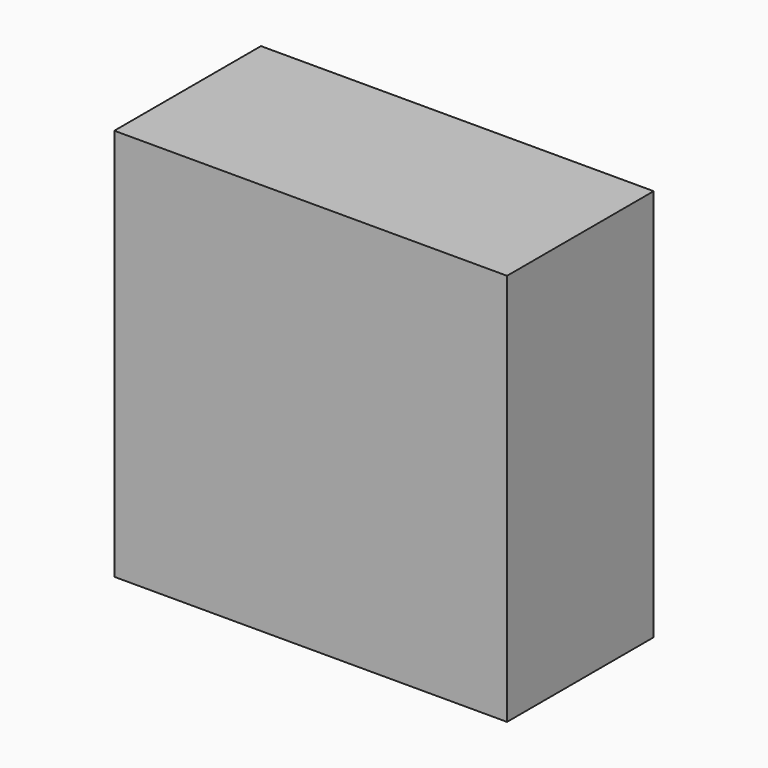
from build123d import *

# Parameters (mm, degrees)
F1_DEPTH = 20
F2_DEPTH = 15
F3_W     = 75
F3_H     = 35
F4_DEPTH = 25


with BuildPart() as f1:
    # F0 (on Front) → F1 (new body)
    with BuildSketch(Plane.XZ):
        Polygon((-55, 0), (0, 0), (20, 0), (20, 50), (-55, 50), align=None)
    extrude(amount=F1_DEPTH)

    # F2 (add): a face of the model
    f2_faces = [f1.faces().sort_by_distance(p)[0] for p in [
        (-17.5, 0, 25),
    ]]
    extrude(f2_faces, amount=F2_DEPTH)

    # F3 (on face) → F4 (join)
    with BuildSketch(Plane(origin=(0, 0, 0), x_dir=(1, 0, 0), z_dir=(0, 0, -1))):
        with Locations((-17.5, 2.5)):
            Rectangle(F3_W, F3_H)
    extrude(amount=F4_DEPTH)


solid = f1.part
